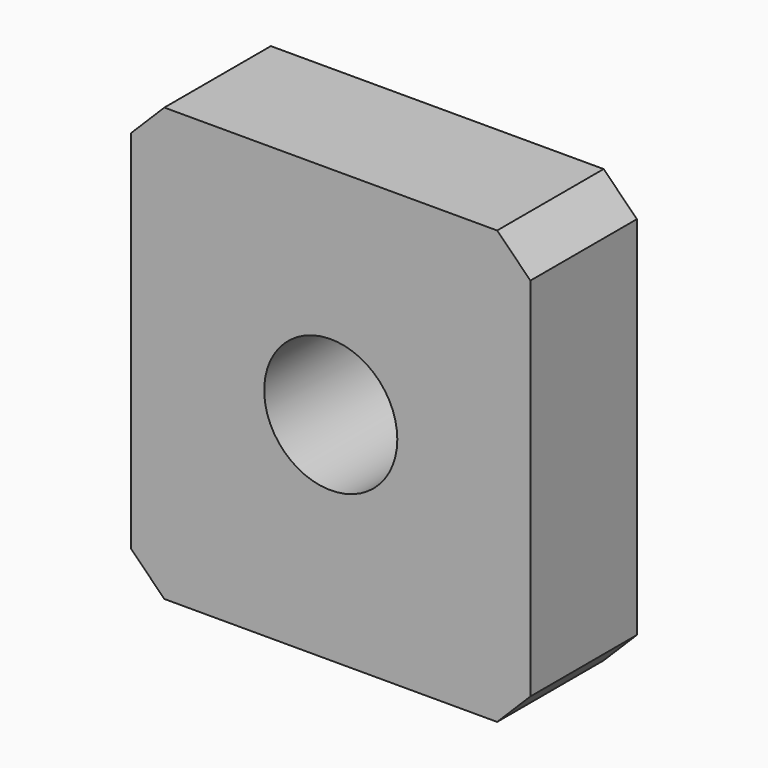
from build123d import *

# Parameters (mm, degrees)
F0_W     = 60
F0_H     = 65
F0_R     = 10
F1_DEPTH = 20
F2_SIZE  = 5


with BuildPart() as f1:
    # F0 (on Front) → F1 (new body)
    with BuildSketch(Plane.XZ):
        Rectangle(F0_W, F0_H)
        Circle(F0_R, mode=Mode.SUBTRACT)
    extrude(amount=F1_DEPTH)

    # F2
    f2_edges = [f1.edges().sort_by_distance(p)[0] for p in [
        (-30, -10, -32.5),
        (-30, -10, 32.5),
        (30, -10, -32.5),
        (30, -10, 32.5),
    ]]
    chamfer(f2_edges, length=F2_SIZE)


solid = f1.part
